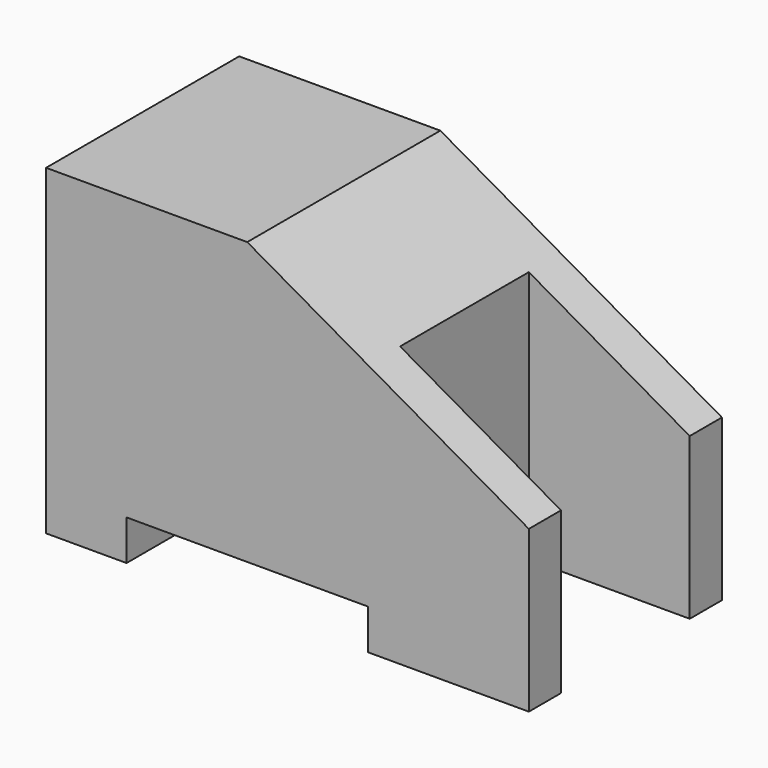
from build123d import *

# Parameters (mm, degrees)
F1_DEPTH = 15
F3_DEPTH = 25


with BuildPart() as f1:
    # F0 (on Front) → F1 (new body)
    with BuildSketch(Plane.XZ):
        Polygon((-16.547133, 24.195697), (-29.047133, 24.195697), (-29.047133, 4.195697), (-24.047133, 4.195697), (-24.047133, 6.695697), (-9.047133, 6.695697), (-9.047133, 4.195697), (0.952867, 4.195697), (0.952867, 14.195697), align=None)
    extrude(amount=-F1_DEPTH)

    # F2 (on face) → F3 (cut)
    with BuildSketch(Plane(origin=(0, 0, 4.195697), x_dir=(1, 0, 0), z_dir=(0, 0, -1))):
        Polygon((0.952867, -12.5), (0.952867, -7.5), (0.952867, -2.5), (-9.047133, -2.5), (-9.047133, -12.5), align=None)
    extrude(amount=-F3_DEPTH, mode=Mode.SUBTRACT)


solid = f1.part
